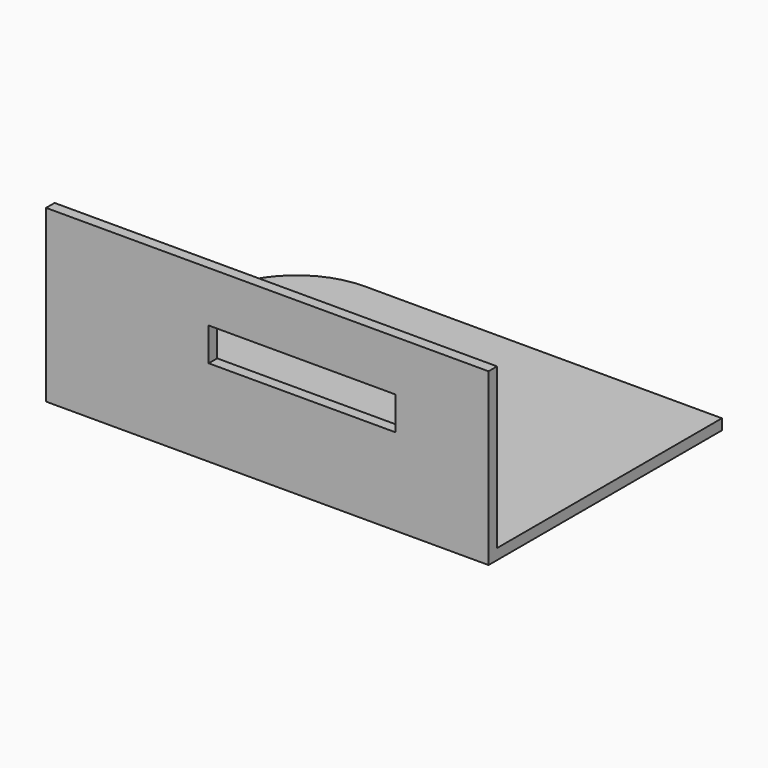
from build123d import *

# Parameters (mm, degrees)
F0_W      = 52.705
F0_H      = 34.7472
F0_W_2    = 50.165
F0_H_2    = 32.2072
F1_DEPTH  = 20.32
F2_DEPTH  = 1.27
F3_R      = 10.16
F6_W      = 22.0472
F6_H      = 1.27
F7_DEPTH  = 0.381
F8_W      = 33.4772
F8_H      = 19.05
F9_DEPTH  = 78.74
F10_W     = 22.225
F10_H     = 3.96875
F11_DEPTH = 25.4


with BuildPart() as f1:
    # F0 (on Top) → F1 (new body)
    with BuildSketch(Plane.XY):
        with Locations((-38.596277, 2.575059)):
            Rectangle(F0_W, F0_H)
        with Locations((-38.596277, 2.575059)):
            Rectangle(F0_W_2, F0_H_2, mode=Mode.SUBTRACT)
    extrude(amount=F1_DEPTH)

    # F0 (on Top) → F2 (join)
    with BuildSketch(Plane.XY):
        with Locations((-38.596277, 2.575059)):
            Rectangle(F0_W_2, F0_H_2)
    extrude(amount=F2_DEPTH)

    # F3
    f3_edges = [f1.edges().sort_by_distance(p)[0] for p in [
        (-64.948777, 19.948659, 10.16),
        (-63.678777, 18.678659, 10.795),
    ]]
    fillet(f3_edges, radius=F3_R)

    # F6 (on face) → F7 (join)
    with BuildSketch(Plane(origin=(-13.513777, 0, 0), x_dir=(0, -1, 0), z_dir=(-1, 0, 0))):
        with Locations((2.504941, 8.5725)):
            Rectangle(F6_W, F6_H)
    extrude(amount=F7_DEPTH)

    # F8 (on face) → F9 (cut)
    with BuildSketch(Plane.YZ.offset(-12.243777)):
        with Locations((3.210059, 10.795)):
            Rectangle(F8_W, F8_H)
    extrude(amount=-F9_DEPTH, mode=Mode.SUBTRACT)

    # F10 (on face) → F11 (cut)
    with BuildSketch(Plane.XZ.offset(14.798541)):
        with Locations((-34.468777, 12.303125)):
            Rectangle(F10_W, F10_H)
    extrude(amount=-F11_DEPTH, mode=Mode.SUBTRACT)


solid = f1.part
